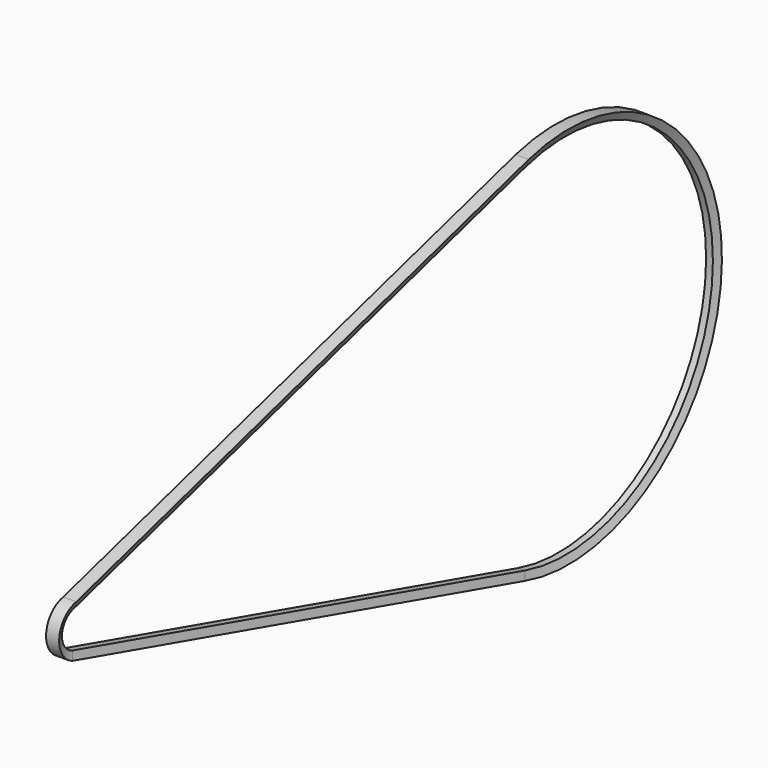
from build123d import *


with BuildPart() as f2:
    # F2: sweep along a path in F0
    with BuildLine(Plane.YZ) as f2_path:
        ThreePointArc((411.7521428571, -128.3438525018), (581.2971428571, 0), (411.7521428571, 128.3438525018))
        Line((411.7521428571, 128.3438525018), (0, 12.2232240478))
        ThreePointArc((0, 12.2232240478), (-9.2528571429, 0), (0, -12.2232240478))
        Line((0, -12.2232240478), (411.7521428571, -128.3438525018))
    # F1 (on Front) → F2 (sweep)
    with BuildSketch(Plane.XZ):
        Polygon((-4.7625, 18.7229695863), (-2.468474675, 13.1667195863), (2.468474675, 13.1667195863), (4.7625, 18.7229695863), align=None)
    sweep(path=f2_path.line)


solid = f2.part
